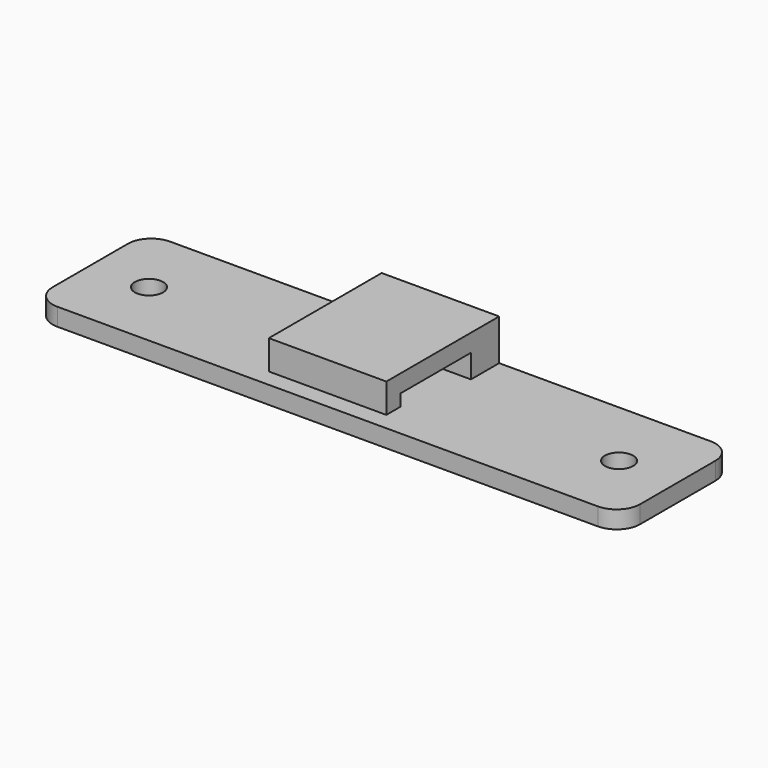
from build123d import *

# Parameters (mm, degrees)
SKETCH_W     = 50
SKETCH_H     = 12
SKETCH_R     = 1.2
PAD_DEPTH    = 1.5
SKETCH001_W  = 10
SKETCH001_H  = 12
PAD001_DEPTH = 3.5
POCKET_DEPTH = 10
FILLET_R     = 2


with BuildPart() as part:
    # Sketch → Pad (new body)
    with BuildSketch(Plane.XY):
        Rectangle(SKETCH_W, SKETCH_H)
        with Locations((-20, 0)):
            Circle(SKETCH_R, mode=Mode.SUBTRACT)
        with Locations((20, 0)):
            Circle(SKETCH_R, mode=Mode.SUBTRACT)
    extrude(amount=PAD_DEPTH)

    # Sketch001 (on Face8 of Pad) → Pad001 (join)
    with BuildSketch(Plane.XY.offset(1.5)):
        Rectangle(SKETCH001_W, SKETCH001_H)
    extrude(amount=PAD001_DEPTH)

    # Sketch002 (on Face12 of Pad001) → Pocket (cut)
    with BuildSketch(Plane.YZ.offset(5)):
        Polygon((3, 1.5), (3, 3.5), (-4.5, 3.5), (-4.5, 2.5), (-6, 2.5), (-6, 1.5), align=None)
    extrude(amount=-POCKET_DEPTH, mode=Mode.SUBTRACT)

    # Fillet
    fillet_edges = [part.edges().sort_by_distance(p)[0] for p in [
        (25, -6, 0.75),
        (25, 6, 0.75),
        (-25, -6, 0.75),
        (-25, 6, 0.75),
    ]]
    fillet(fillet_edges, radius=FILLET_R)


solid = part.part
